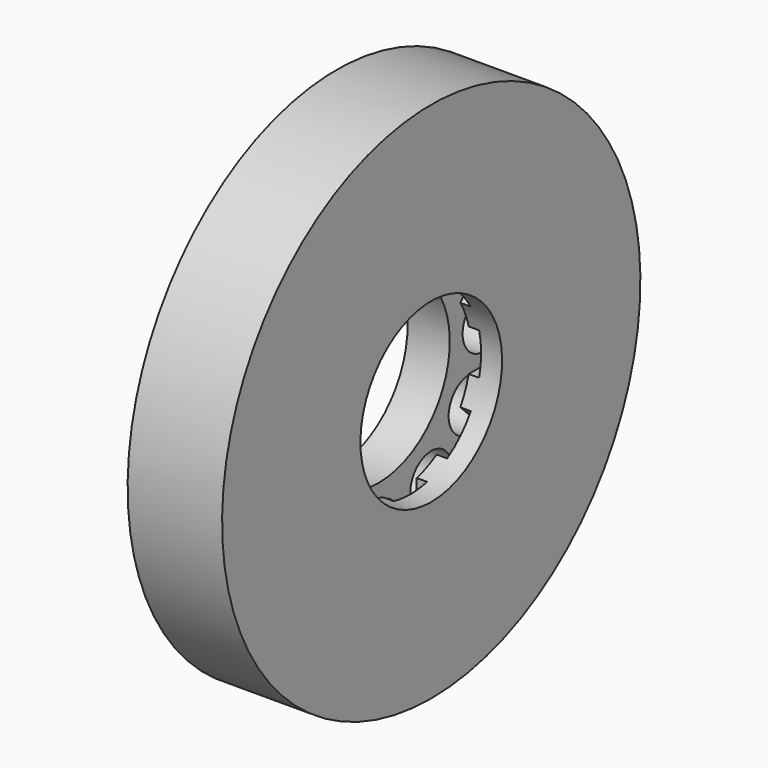
from build123d import *

# Parameters (mm, degrees)
F3_R     = 6.35
F4_DEPTH = 25.4
F5_W     = 10.16
F5_H     = 27.94
F5_W_2   = 27.94
F5_H_2   = 10.16
F6_DEPTH = 2.54


with BuildPart() as f2:
    # F0 (on Front) → F2 (revolve)
    with BuildSketch(Plane.XZ):
        Polygon((0, 7.62), (0, 0), (22.950256, 0), (22.950256, 42.000256), (15.330256, 42.000256), (15.330256, 16.600256), (13.534205, 14.804205), (15.689466, 12.648943), (10.301313, 7.26079), (8.146051, 9.416051), (6.35, 7.62), align=None)
        Polygon((0, 42.000256), (0, 11.43), (3.066051, 14.496051), (0.91079, 16.651313), (6.298943, 22.039466), (8.454205, 19.884205), (10.250256, 21.680256), (10.250256, 42.000256), align=None)
    revolve(axis=Axis((-1.72475, 0, 63.5), (-1, 0, 0)))

    # F3 (on face) → F4 (cut)
    with BuildSketch(Plane.YZ.offset(10.250256)):
        with Locations((0, 31.75)):
            Circle(F3_R)
        with Locations((15.875, 36.003693)):
            Circle(F3_R)
        with Locations((27.496307, 47.625)):
            Circle(F3_R)
        with Locations((31.75, 63.5)):
            Circle(F3_R)
        with Locations((27.496307, 79.375)):
            Circle(F3_R)
        with Locations((15.875, 90.996307)):
            Circle(F3_R)
        with Locations((0, 95.25)):
            Circle(F3_R)
        with Locations((-15.875, 90.996307)):
            Circle(F3_R)
        with Locations((-27.496307, 79.375)):
            Circle(F3_R)
        with Locations((-31.75, 63.5)):
            Circle(F3_R)
        with Locations((-27.496307, 47.625)):
            Circle(F3_R)
        with Locations((-15.875, 36.003693)):
            Circle(F3_R)
    extrude(amount=-F4_DEPTH, mode=Mode.SUBTRACT)

    # F5 (on face) → F6 (cut)
    with BuildSketch(Plane(origin=(15.330256, 0, 0), x_dir=(0, -1, 0), z_dir=(-1, 0, 0))):
        with Locations((0, 31.75)):
            Rectangle(F5_W, F5_H)
        Polygon((16.164461, 54.519744), (8.980256, 47.335539), (28.73682, 27.578976), (35.921024, 34.76318), align=None)
        with Locations((31.75, 63.5)):
            Rectangle(F5_W_2, F5_H_2)
        Polygon((8.980256, 79.664461), (16.164461, 72.480256), (35.921024, 92.23682), (28.73682, 99.421024), align=None)
        with Locations((0, 95.25)):
            Rectangle(F5_W, F5_H)
        Polygon((-16.164461, 72.480256), (-8.980256, 79.664461), (-28.73682, 99.421024), (-35.921024, 92.23682), align=None)
        with Locations((-31.75, 63.5)):
            Rectangle(F5_W_2, F5_H_2)
        Polygon((-8.980256, 47.335539), (-16.164461, 54.519744), (-35.921024, 34.76318), (-28.73682, 27.578976), align=None)
    extrude(amount=-F6_DEPTH, mode=Mode.SUBTRACT)


solid = f2.part
